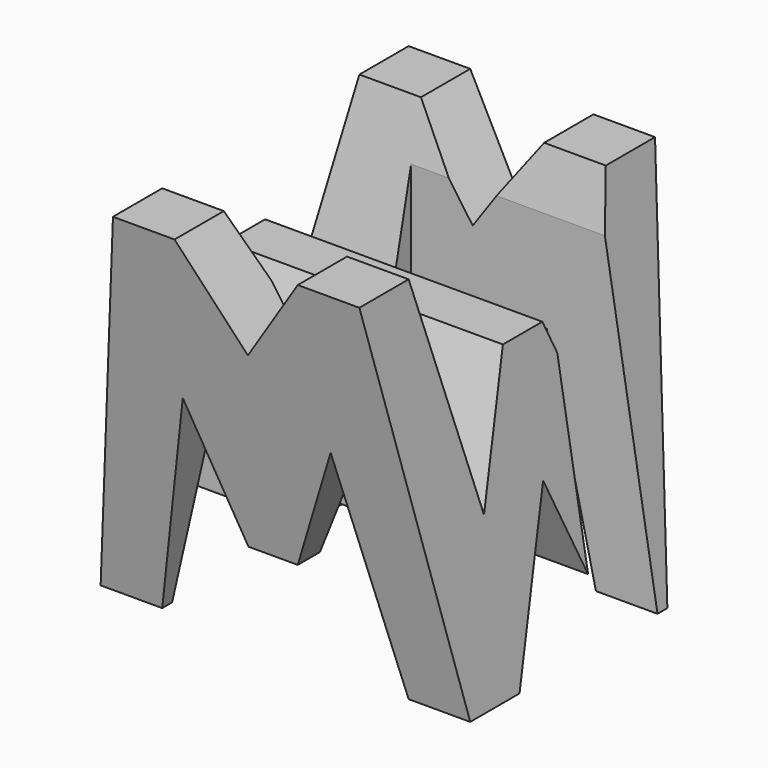
from build123d import *

# Parameters (mm, degrees)
F0_W      = 38.1
F0_H      = 38.1
F1_DEPTH  = 38.1
F6_DEPTH  = 38.1
F8_DEPTH  = 38.1
F9_W      = 25.4
F9_H      = 7.62
F10_DEPTH = 38.1


with BuildPart() as f1:
    # F0 (on Front) → F1 (new body)
    with BuildSketch(Plane.XZ):
        with Locations((19.05, 19.05)):
            Rectangle(F0_W, F0_H)
    extrude(amount=F1_DEPTH)

    # F5 (on offset) → F6 (cut)
    with BuildSketch(Plane.YZ.offset(38.1)):
        Polygon((-11.43, 15.875), (-6.35, 38.1), (-31.75, 38.1), (-26.67, 15.875), (-21.59, 28.575), (-16.51, 28.575), align=None)
        Polygon((-25.4, 0), (-12.7, 0), (-19.05, 15.875), align=None)
        Polygon((-6.35, 0), (0, 0), (0, 38.1), align=None)
        Polygon((-31.75, 0), (-38.1, 38.1), (-38.1, 0), align=None)
    extrude(amount=-F6_DEPTH, mode=Mode.SUBTRACT)

    # F7 (on offset) → F8 (cut)
    with BuildSketch(Plane.XZ.offset(38.1)):
        Polygon((0, 38.1), (0, 0), (6.35, 38.1), align=None)
        Polygon((25.4, 38.1), (12.7, 38.1), (19.05, 29.0341), align=None)
        Polygon((31.75, 38.1), (38.1, 0), (38.1, 38.1), align=None)
        Polygon((11.43, 22.225), (6.35, 0), (31.75, 0), (26.67, 22.225), (21.59, 9.525), (16.51, 9.525), align=None)
    extrude(amount=-F8_DEPTH, mode=Mode.SUBTRACT)

    # F9 (on offset) → F10 (cut)
    with BuildSketch(Plane.XY.offset(38.1)):
        with Locations((25.4, -11.43)):
            Rectangle(F9_W, F9_H)
        with Locations((12.7, -26.67)):
            Rectangle(F9_W, F9_H)
    extrude(amount=-F10_DEPTH, mode=Mode.SUBTRACT)


solid = f1.part
